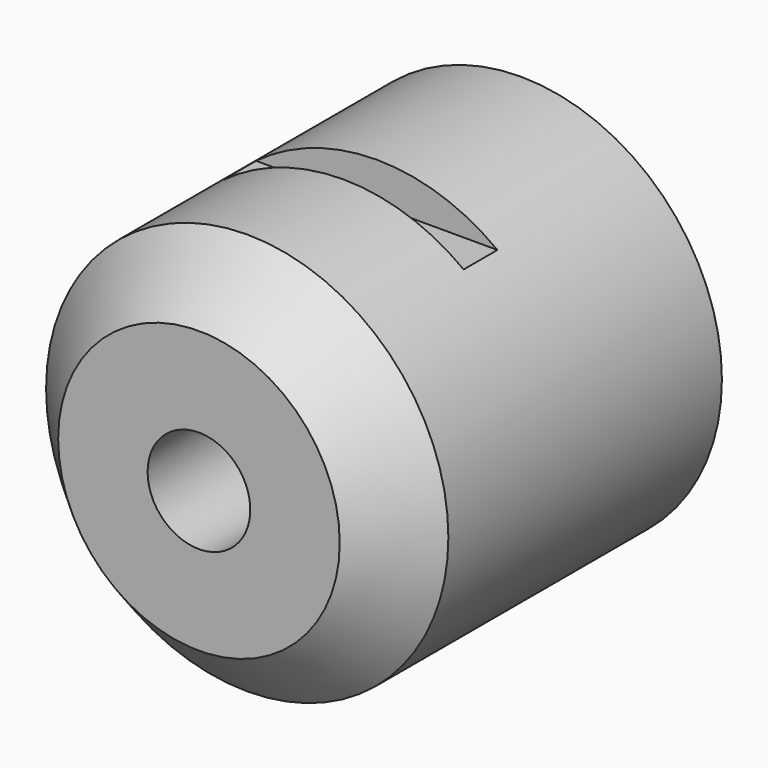
from build123d import *

# Parameters (mm, degrees)
F0_R     = 10
F1_DEPTH = 20
F3_D     = 5.1054
F4_W     = 2.1
F4_H     = 19.5127989389
F5_DEPTH = 12.5
F6_SIZE  = 3


with BuildPart() as f1:
    # F0 (on Front) → F1 (new body)
    with BuildSketch(Plane.XZ):
        Circle(F0_R)
    extrude(amount=F1_DEPTH)

    # F3 (through all)
    with Locations(Plane.XZ.offset(20)):
        with Locations((0, 0)):
            Hole(F3_D / 2)

    # F4 (on Right) → F5 (cut, symmetric)
    with BuildSketch(Plane.YZ):
        with Locations((-10, 17.7563994695)):
            Rectangle(F4_W, F4_H)
        with Locations((-10, -17.7563994695)):
            Rectangle(F4_W, F4_H)
    extrude(amount=F5_DEPTH, both=True, mode=Mode.SUBTRACT)

    # F6
    f6_edges = [f1.edges().sort_by_distance(p)[0] for p in [
        (-10, -20, 0),
    ]]
    chamfer(f6_edges, length=F6_SIZE)


solid = f1.part
